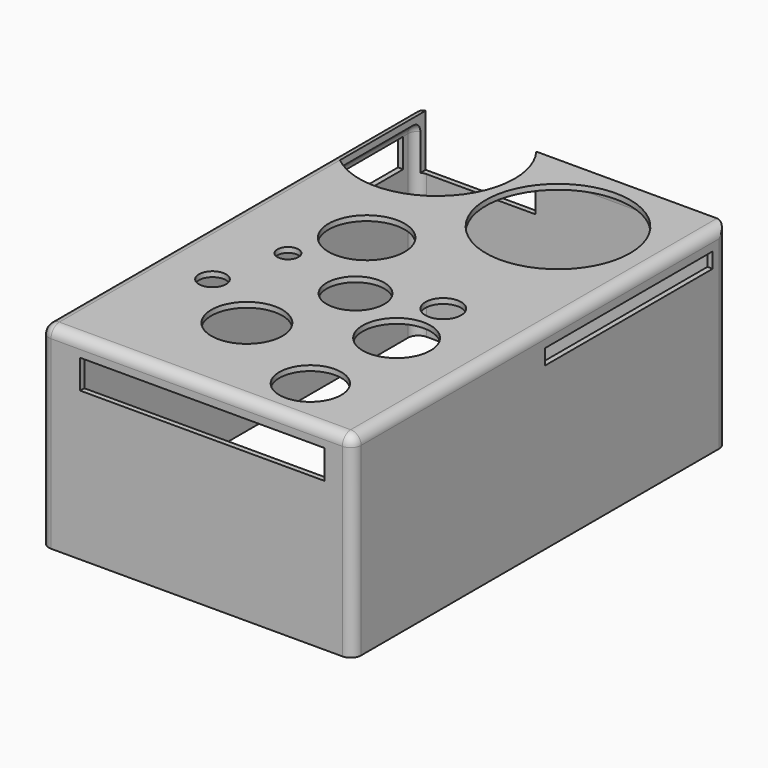
from build123d import *

# Parameters (mm, degrees)
F0_W      = 152.4
F0_H      = 95.3626578227
F1_DEPTH  = 228.6
F2_T      = -2.54
F3_R      = 5.08
F4_R      = 35.2372499074
F5_DEPTH  = 25.4
F6_R      = 18.618406975
F6_R_2    = 16.5748786225
F6_R_3    = 8.7435651561
F6_R_4    = 17.3413047292
F7_DEPTH  = 25.4
F8_R      = 5.1423481667
F8_R_2    = 14.090646871
F8_R_3    = 6.6197884321
F8_R_4    = 15.148279019
F9_DEPTH  = 25.4
F10_W     = 119.2719545215
F10_H     = 14.1333565116
F11_DEPTH = 25.4
F12_W     = 94.5496149361
F12_H     = 14.0616036952
F13_DEPTH = 25.4
F14_W     = 102.1888470277
F14_H     = 7.4939653277
F15_DEPTH = 25.4


with BuildPart() as f1:
    # F0 (on Front) → F1 (new body)
    with BuildSketch(Plane.XZ):
        with Locations((-41.1360282451, 14.7424824536)):
            Rectangle(F0_W, F0_H)
    extrude(amount=F1_DEPTH)

    # F2
    f2_openings = [f1.faces().sort_by_distance(p)[0] for p in [
        (-41.136028, -114.3, -32.938846),
    ]]
    offset(amount=F2_T, openings=f2_openings)

    # F3
    f3_edges = [f1.edges().sort_by_distance(p)[0] for p in [
        (-114.796028, -114.3, 59.883811),
        (-114.796028, -226.06, 13.472482),
        (-41.136028, -226.06, 59.883811),
        (32.523972, -226.06, 13.472482),
        (-41.136028, -2.54, 59.883811),
        (-114.796028, -2.54, 13.472482),
        (35.063972, 0, 14.742482),
        (-117.336028, 0, 14.742482),
        (-117.336028, -228.6, 14.742482),
        (35.063972, -228.6, 14.742482),
        (32.523972, -2.54, 13.472482),
        (35.063972, -114.3, 62.423811),
        (-41.136028, -228.6, 62.423811),
        (-117.336028, -114.3, 62.423811),
        (32.523972, -114.3, 59.883811),
    ]]
    fillet(f3_edges, radius=F3_R)

    # F4 (on face) → F5 (cut)
    with BuildSketch(Plane.XY.offset(62.423811365)):
        with Locations((-13.0968187004, -43.1509837508)):
            Circle(F4_R)
    extrude(amount=-F5_DEPTH, mode=Mode.SUBTRACT)

    # F6 (on face) → F7 (cut)
    with BuildSketch(Plane.XY.offset(62.423811365)):
        with BuildLine():
            ThreePointArc((-112.2560282451, -52.3542664582), (-72.1481054557, -56.8578320674), (-50.6796549672, -22.681331262))
            ThreePointArc((-50.6796549672, -22.681331262), (-52.6104743381, -10.7325381795), (-58.2063964066, 0))
            Line((-58.2063964066, 0), (-112.2560282451, 0))
            Line((-112.2560282451, 0), (-112.2560282451, -52.3542664582))
        make_face()
        with Locations((-64.2905011773, -95.9484130144)):
            Circle(F6_R)
        with Locations((-3.6475341767, -153.4599065781)):
            Circle(F6_R_2)
        with Locations((-4.9036405981, -123.4000101686)):
            Circle(F6_R_3)
        with Locations((-56.035131216, -179.3635040522)):
            Circle(F6_R_4)
    extrude(amount=-F7_DEPTH, mode=Mode.SUBTRACT)

    # F8 (on face) → F9 (cut)
    with BuildSketch(Plane.XY.offset(62.423811365)):
        with Locations((-79.7442123294, -124.662168324)):
            Circle(F8_R)
        with Locations((-38.8632304966, -134.5197707415)):
            Circle(F8_R_2)
        with Locations((-88.7798666954, -159.4061106443)):
            Circle(F8_R_3)
        with Locations((-5.8542490005, -203.3631652594)):
            Circle(F8_R_4)
    extrude(amount=-F9_DEPTH, mode=Mode.SUBTRACT)

    # F10 (on face) → F11 (cut)
    with BuildSketch(Plane.XZ.offset(228.6)):
        with Locations((-38.4055124596, 46.7209592462)):
            Rectangle(F10_W, F10_H)
    extrude(amount=-F11_DEPTH, mode=Mode.SUBTRACT)

    # F12 (on face) → F13 (cut)
    with BuildSketch(Plane(origin=(-117.3360282451, 0, 0), x_dir=(0, -1, 0), z_dir=(-1, 0, 0))):
        with Locations((57.7809717506, 47.705097124)):
            Rectangle(F12_W, F12_H)
    extrude(amount=-F13_DEPTH, mode=Mode.SUBTRACT)

    # F14 (on face) → F15 (cut)
    with BuildSketch(Plane.YZ.offset(35.0639717549)):
        with Locations((-60.0578528829, 49.7737638652)):
            Rectangle(F14_W, F14_H)
    extrude(amount=-F15_DEPTH, mode=Mode.SUBTRACT)


solid = f1.part
